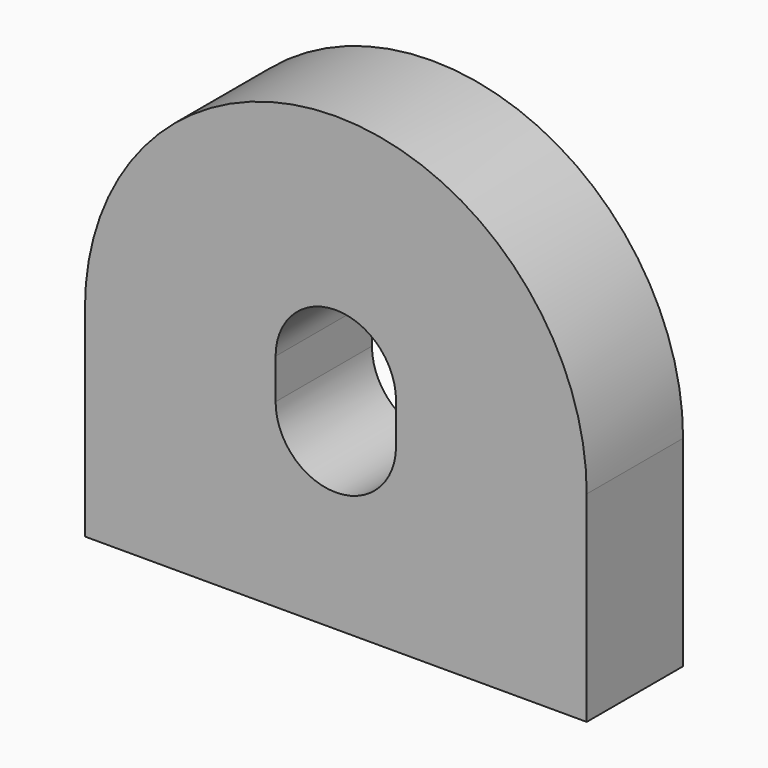
from build123d import *

# Parameters (mm, degrees)
F1_DEPTH = 6


with BuildPart() as f1:
    # F0 (on Front) → F1 (new body)
    with BuildSketch(Plane.XZ):
        with BuildLine():
            Line((-49.746411, 20.411621), (-49.746411, 10.411621))
            Line((-49.746411, 10.411621), (-24.746411, 10.411621))
            Line((-24.746411, 10.411621), (-24.746411, 20.411621))
            ThreePointArc((-24.746411, 20.411621), (-37.246411, 32.911621), (-49.746411, 20.411621))
        make_face()
        with BuildLine():
            ThreePointArc((-40.246411, 21.411621), (-37.246411, 24.411621), (-34.246411, 21.411621))
            Line((-34.246411, 21.411621), (-34.246411, 19.411621))
            ThreePointArc((-34.246411, 19.411621), (-37.246411, 16.411621), (-40.246411, 19.411621))
            Line((-40.246411, 19.411621), (-40.246411, 21.411621))
        make_face(mode=Mode.SUBTRACT)
    extrude(amount=F1_DEPTH)


solid = f1.part
